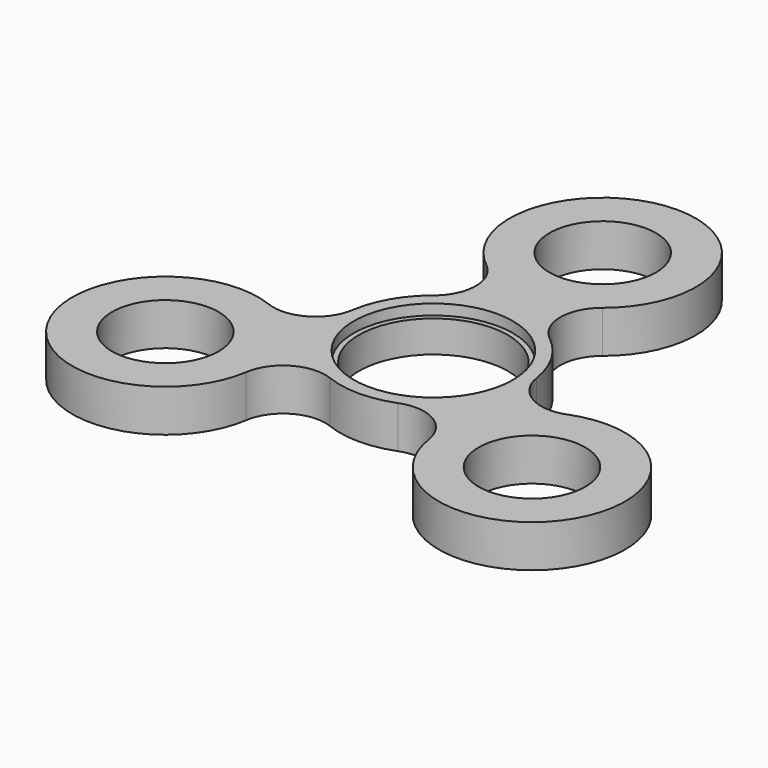
from build123d import *

# Parameters (mm, degrees)
F0_R     = 8.001
F0_R_2   = 11.176
F1_DEPTH = 6.35
F2_R     = 11.938
F3_DEPTH = 1.5875


with BuildPart() as f1:
    # F0 (on Top) → F1 (new body)
    with BuildSketch(Plane.XY):
        with BuildLine():
            ThreePointArc((-8.720329, 20.835938), (-6.334115, 15.875), (-8.720329, 10.914062))
            ThreePointArc((-8.720329, 10.914062), (-12.098375, 6.985), (-13.81202, 2.094995))
            ThreePointArc((-13.81202, 2.094995), (-16.915211, -2.451995), (-22.404616, -2.865942))
            ThreePointArc((-22.404616, -2.865942), (-39.594681, -22.86), (-13.684287, -17.969995))
            ThreePointArc((-13.684287, -17.969995), (-10.581096, -13.423005), (-5.091691, -13.009058))
            ThreePointArc((-5.091691, -13.009058), (0, -13.97), (5.091691, -13.009058))
            ThreePointArc((5.091691, -13.009058), (10.581096, -13.423005), (13.684287, -17.969995))
            ThreePointArc((13.684287, -17.969995), (39.594681, -22.86), (22.404616, -2.865942))
            ThreePointArc((22.404616, -2.865942), (16.915211, -2.451995), (13.81202, 2.094995))
            ThreePointArc((13.81202, 2.094995), (12.098375, 6.985), (8.720329, 10.914062))
            ThreePointArc((8.720329, 10.914062), (6.334115, 15.875), (8.720329, 20.835938))
            ThreePointArc((8.720329, 20.835938), (0, 45.72), (-8.720329, 20.835938))
        make_face()
        with Locations((-27.496307, -15.875)):
            Circle(F0_R, mode=Mode.SUBTRACT)
        with Locations((27.496307, -15.875)):
            Circle(F0_R, mode=Mode.SUBTRACT)
        Circle(F0_R_2, mode=Mode.SUBTRACT)
        with Locations((0, 31.75)):
            Circle(F0_R, mode=Mode.SUBTRACT)
    extrude(amount=F1_DEPTH)

    # F2 (on face) → F3 (cut)
    with BuildSketch(Plane.XY.offset(6.35)):
        Circle(F2_R)
    extrude(amount=-F3_DEPTH, mode=Mode.SUBTRACT)


solid = f1.part
